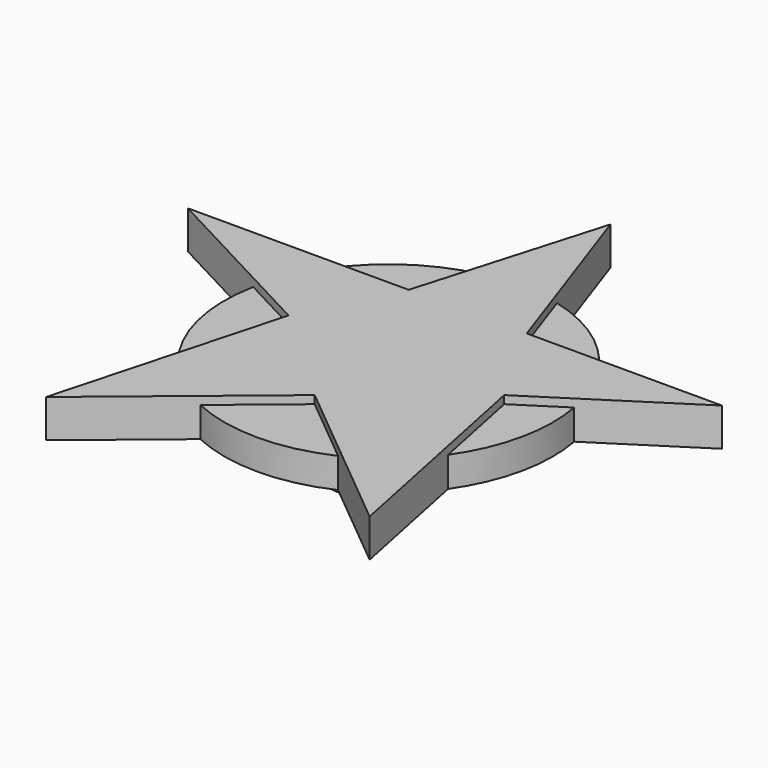
from build123d import *

# Parameters (mm, degrees)
F0_R     = 10.9728
F1_DEPTH = 2.0066
F2_R     = 5.207
F3_DEPTH = 1.524
F4_R     = 4.0005
F5_DEPTH = 4.1148
F8_DEPTH = 2.54


with BuildPart() as f1:
    # F0 (on Top) → F1 (new body)
    with BuildSketch(Plane.XY):
        Circle(F0_R)
    extrude(amount=F1_DEPTH)

    # F2 (on face) → F3 (join)
    with BuildSketch(Plane(origin=(0, 0, 0), x_dir=(1, 0, 0), z_dir=(0, 0, -1))):
        Circle(F2_R)
    extrude(amount=F3_DEPTH)

    # F4 (on Top) → F5 (join)
    with BuildSketch(Plane.XY):
        Circle(F4_R)
    extrude(amount=-F5_DEPTH)

    # F7 (on face) → F8 (join)
    with BuildSketch(Plane.XY):
        Polygon((4.283191, 6.165847), (0, 18.501436), (-3.597881, 6.165847), (-18.332055, 6.165847), (-6.681778, 0), (-10.79364, -15.078778), (0, -6.169742), (10.79364, -15.078778), (7.709743, 0), (17.304089, 6.165847), align=None)
    extrude(amount=F8_DEPTH)


solid = f1.part
